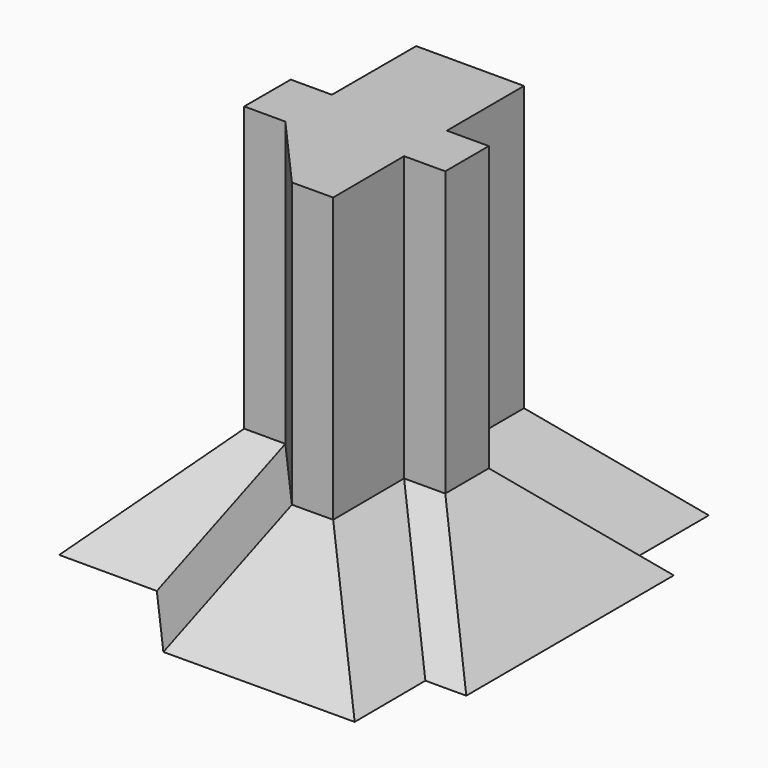
from build123d import *

# Parameters (mm, degrees)
F1_DEPTH = 25
F4_DEPTH = 69
F5_DEPTH = 25
F5_TAPER = -45


with BuildPart() as f1:
    # F0 (on Front) → F1 (new body)
    with BuildSketch(Plane.XZ):
        Polygon((-37.9215627909, 0), (-25.2369977534, 0), (-4.096057266, -27.3510906845), (10.9668616205, -27.3510906845), (10.9668616205, 0), (20.2160235494, 0), (20.2160235494, 10.7026007026), (11.2311234698, 10.7026007026), (11.495385319, 24.444213137), (-26.5543982792, 25.1759399431), (-26.5543982792, 12.0239099488), (-37.9215627909, 12.0239099488), align=None)
    extrude(amount=F1_DEPTH)


with BuildPart() as f4:
    # F3 (on Top) → F4 (new body)
    with BuildSketch(Plane.XY):
        Polygon((-24.5968098739, -9.0773625368), (-14.5968098739, -9.0773625368), (2.0060510084, -27.8395099328), (12.0059180895, -27.7879506378), (11.8940432243, -6.0899467872), (21.8940147673, -6.0660901471), (21.8623394592, 7.2112271297), (11.6888906335, 7.1869566299), (11.6327921873, 30.701704037), (-14.5968098739, 30.701704037), (-14.5968098739, 5.0683153725), (-24.5968098739, 5.0683153725), align=None)
    extrude(amount=F4_DEPTH)

    # F4_face (on face) → F5 (join)
    with BuildSketch(Plane(origin=(-0.7630345516, 3.1523470062, 0), x_dir=(1, 0, 0), z_dir=(0, 0, -1))):
        Polygon((12.3958267389, -27.5493570308), (12.4519251851, -4.0346096237), (22.6253740108, -4.0588801235), (22.6570493189, 9.2184371533), (12.6570777759, 9.2422937934), (12.768952641, 30.940297644), (2.76908556, 30.991856939), (-13.8337753223, 12.229709543), (-23.8337753223, 12.229709543), (-23.8337753223, -1.9159683663), (-13.8337753223, -1.9159683663), (-13.8337753223, -27.5493570308), align=None)
    extrude(amount=F5_DEPTH, taper=F5_TAPER)


solid = f4.part
